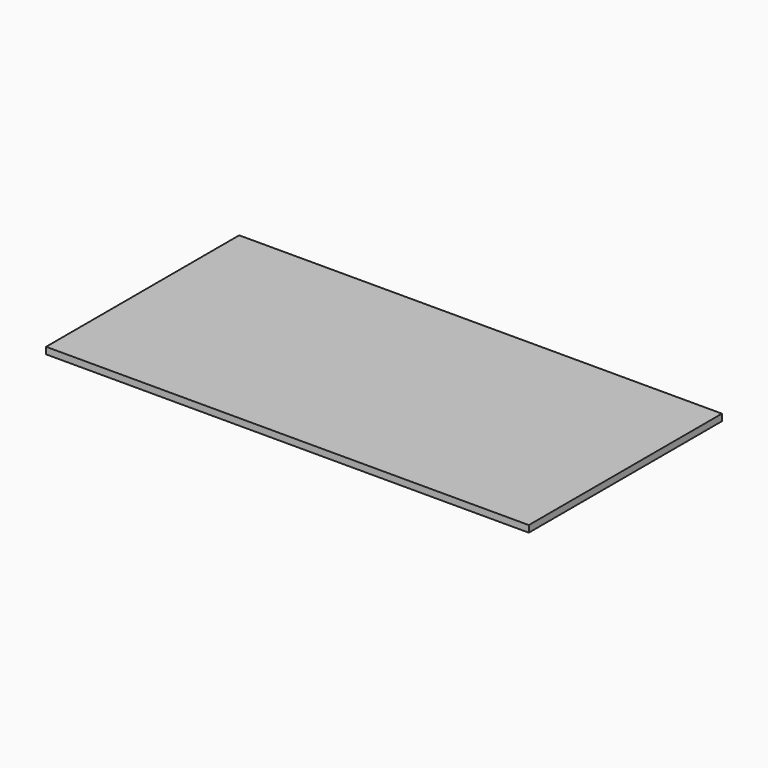
from build123d import *

# Parameters (mm, degrees)
F0_W     = 1800
F0_H     = 450
F1_DEPTH = 12.5


with BuildPart() as f1:
    # F0 (on Top) → F1 (new body, symmetric)
    with BuildSketch(Plane.XY):
        with Locations((-900, -225)):
            Rectangle(F0_W, F0_H)
        with Locations((-900, 225)):
            Rectangle(F0_W, F0_H)
    extrude(amount=F1_DEPTH, both=True)


solid = f1.part
